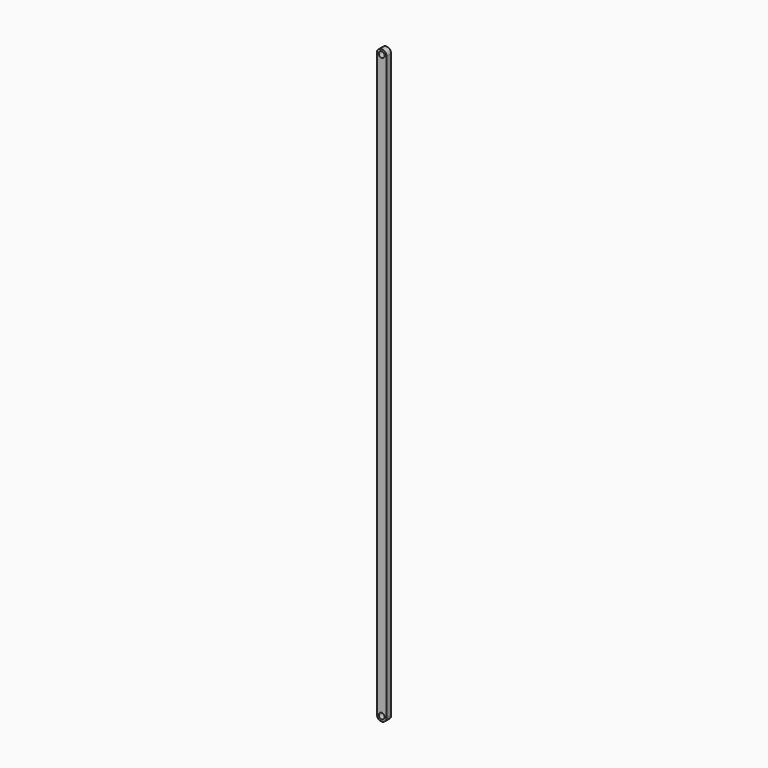
from build123d import *

# Parameters (mm, degrees)
F1_DEPTH = 3
F2_R     = 1.5
F3_DEPTH = 3


with BuildPart() as f1:
    # F0 (on Front) → F1 (new body)
    with BuildSketch(Plane.XZ):
        with BuildLine():
            Line((2.5, -40.961199), (2.5, 259.038801))
            ThreePointArc((2.5, 259.038801), (0, 261.538801), (-2.5, 259.038801))
            Line((-2.5, 259.038801), (-2.5, -40.961199))
            ThreePointArc((-2.5, -40.961199), (0, -43.461199), (2.5, -40.961199))
        make_face()
    extrude(amount=F1_DEPTH)

    # F2 (on face) → F3 (cut, through all)
    with BuildSketch(Plane.XZ.offset(3)):
        with Locations((0, 259.038801)):
            Circle(F2_R)
        with Locations((0, -40.961199)):
            Circle(F2_R)
    extrude(amount=-F3_DEPTH, mode=Mode.SUBTRACT)


solid = f1.part
